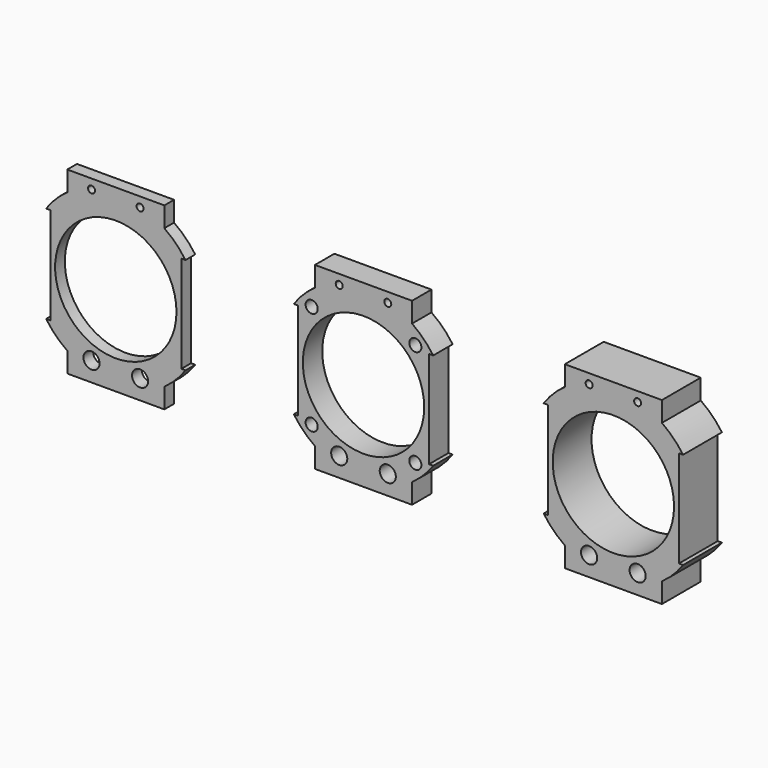
from build123d import *

# Parameters (mm, degrees)
F0_R     = 0.79375
F0_R_2   = 7.9375
F1_DEPTH = 3.175
F2_R     = 7.9375
F3_DEPTH = 6.35
F5_R     = 7.9375
F6_DEPTH = 1.5875


with BuildPart() as f1:
    # F0 (on Front) → F1 (new body)
    with BuildSketch(Plane.XZ):
        with BuildLine():
            ThreePointArc((3.631523, 10.502366), (5.038431, 9.904639), (6.35, 9.119493))
            Line((6.35, 9.119493), (6.35, 11.7475))
            Line((6.35, 11.7475), (-6.35, 11.7475))
            Line((-6.35, 11.7475), (-6.35, 9.119493))
            ThreePointArc((-6.35, 9.119493), (-5.038431, 9.904639), (-3.631523, 10.502366))
            ThreePointArc((-3.631523, 10.502366), (-3.307591, 10.915052), (-2.809071, 10.751594))
            ThreePointArc((-2.809071, 10.751594), (0, 11.1125), (2.809071, 10.751594))
            ThreePointArc((2.809071, 10.751594), (3.307591, 10.915052), (3.631523, 10.502366))
        make_face()
        with BuildLine():
            Line((6.35, -11.7475), (6.35, -9.119493))
            ThreePointArc((6.35, -9.119493), (0, -11.1125), (-6.35, -9.119493))
            Line((-6.35, -9.119493), (-6.35, -11.7475))
            Line((-6.35, -11.7475), (6.35, -11.7475))
        make_face()
        with BuildLine():
            Line((6.35, 8.5725), (6.35, 9.119493))
            ThreePointArc((6.35, 9.119493), (5.038431, 9.904639), (3.631523, 10.502366))
            ThreePointArc((3.631523, 10.502366), (3.632031, 10.489938), (3.6322, 10.4775))
            ThreePointArc((3.6322, 10.4775), (3.030555, 10.043717), (2.809071, 10.751594))
            ThreePointArc((2.809071, 10.751594), (0, 11.1125), (-2.809071, 10.751594))
            ThreePointArc((-2.809071, 10.751594), (-2.741217, 10.621945), (-2.7178, 10.4775))
            ThreePointArc((-2.7178, 10.4775), (-3.187438, 10.020469), (-3.631523, 10.502366))
            ThreePointArc((-3.631523, 10.502366), (-5.038431, 9.904639), (-6.35, 9.119493))
            Line((-6.35, 9.119493), (-6.35, 8.5725))
            Line((-6.35, 8.5725), (6.35, 8.5725))
        make_face()
        with BuildLine():
            ThreePointArc((-6.35, -9.119493), (0, -11.1125), (6.35, -9.119493))
            Line((6.35, -9.119493), (6.35, -8.5725))
            Line((6.35, -8.5725), (4.016369, -8.5725))
            ThreePointArc((4.016369, -8.5725), (4.174503, -8.872657), (4.2291, -9.2075))
            ThreePointArc((4.2291, -9.2075), (2.840157, -10.207003), (2.333631, -8.5725))
            Line((2.333631, -8.5725), (-2.333631, -8.5725))
            ThreePointArc((-2.333631, -8.5725), (-2.175497, -8.872657), (-2.1209, -9.2075))
            ThreePointArc((-2.1209, -9.2075), (-3.509843, -10.207003), (-4.016369, -8.5725))
            Line((-4.016369, -8.5725), (-6.35, -8.5725))
            Line((-6.35, -8.5725), (-6.35, -9.119493))
        make_face()
        with BuildLine():
            Line((8.5725, 6.35), (9.119493, 6.35))
            ThreePointArc((9.119493, 6.35), (7.857724, 7.857724), (6.35, 9.119493))
            Line((6.35, 9.119493), (6.35, 8.5725))
            Line((6.35, 8.5725), (-6.35, 8.5725))
            Line((-6.35, 8.5725), (-6.35, 9.119493))
            ThreePointArc((-6.35, 9.119493), (-7.857724, 7.857724), (-9.119493, 6.35))
            Line((-9.119493, 6.35), (-8.5725, 6.35))
            Line((-8.5725, 6.35), (-8.5725, -6.35))
            Line((-8.5725, -6.35), (-9.119493, -6.35))
            ThreePointArc((-9.119493, -6.35), (-7.857724, -7.857724), (-6.35, -9.119493))
            Line((-6.35, -9.119493), (-6.35, -8.5725))
            Line((-6.35, -8.5725), (-4.016369, -8.5725))
            ThreePointArc((-4.016369, -8.5725), (-3.175, -8.1534), (-2.333631, -8.5725))
            Line((-2.333631, -8.5725), (2.333631, -8.5725))
            ThreePointArc((2.333631, -8.5725), (3.175, -8.1534), (4.016369, -8.5725))
            Line((4.016369, -8.5725), (6.35, -8.5725))
            Line((6.35, -8.5725), (6.35, -9.119493))
            ThreePointArc((6.35, -9.119493), (7.857724, -7.857724), (9.119493, -6.35))
            Line((9.119493, -6.35), (8.5725, -6.35))
            Line((8.5725, -6.35), (8.5725, 6.35))
        make_face()
        with Locations((-6.780093, -6.780093)):
            Circle(F0_R, mode=Mode.SUBTRACT)
        Circle(F0_R_2, mode=Mode.SUBTRACT)
        with Locations((6.780093, -6.780093)):
            Circle(F0_R, mode=Mode.SUBTRACT)
        with Locations((-6.780093, 6.780093)):
            Circle(F0_R, mode=Mode.SUBTRACT)
        with Locations((6.780093, 6.780093)):
            Circle(F0_R, mode=Mode.SUBTRACT)
    extrude(amount=-F1_DEPTH)


with BuildPart() as f3:
    # F2 (on Front) → F3 (new body)
    with BuildSketch(Plane.XZ):
        with BuildLine():
            Line((-49.419824, 60.409108), (-48.87283, 60.409108))
            ThreePointArc((-48.87283, 60.409108), (-50.134599, 61.916832), (-51.642324, 63.178601))
            Line((-51.642324, 63.178601), (-51.642324, 62.631608))
            Line((-51.642324, 62.631608), (-64.342324, 62.631608))
            Line((-64.342324, 62.631608), (-64.342324, 63.178601))
            ThreePointArc((-64.342324, 63.178601), (-65.850048, 61.916832), (-67.111817, 60.409108))
            Line((-67.111817, 60.409108), (-66.564824, 60.409108))
            Line((-66.564824, 60.409108), (-66.564824, 47.709108))
            Line((-66.564824, 47.709108), (-67.111817, 47.709108))
            ThreePointArc((-67.111817, 47.709108), (-65.850048, 46.201384), (-64.342324, 44.939615))
            Line((-64.342324, 44.939615), (-64.342324, 45.486608))
            Line((-64.342324, 45.486608), (-62.008693, 45.486608))
            ThreePointArc((-62.008693, 45.486608), (-61.167324, 45.905708), (-60.325955, 45.486608))
            Line((-60.325955, 45.486608), (-55.658693, 45.486608))
            ThreePointArc((-55.658693, 45.486608), (-54.817324, 45.905708), (-53.975955, 45.486608))
            Line((-53.975955, 45.486608), (-51.642324, 45.486608))
            Line((-51.642324, 45.486608), (-51.642324, 44.939615))
            ThreePointArc((-51.642324, 44.939615), (-50.134599, 46.201384), (-48.87283, 47.709108))
            Line((-48.87283, 47.709108), (-49.419824, 47.709108))
            Line((-49.419824, 47.709108), (-49.419824, 60.409108))
        make_face()
        with Locations((-57.992324, 54.059108)):
            Circle(F2_R, mode=Mode.SUBTRACT)
        with BuildLine():
            ThreePointArc((-54.3608, 64.561474), (-52.953893, 63.963747), (-51.642324, 63.178601))
            Line((-51.642324, 63.178601), (-51.642324, 65.806608))
            Line((-51.642324, 65.806608), (-64.342324, 65.806608))
            Line((-64.342324, 65.806608), (-64.342324, 63.178601))
            ThreePointArc((-64.342324, 63.178601), (-63.030754, 63.963747), (-61.623847, 64.561474))
            ThreePointArc((-61.623847, 64.561474), (-61.299915, 64.974159), (-60.801394, 64.810702))
            ThreePointArc((-60.801394, 64.810702), (-57.992324, 65.171608), (-55.183253, 64.810702))
            ThreePointArc((-55.183253, 64.810702), (-54.684732, 64.974159), (-54.3608, 64.561474))
        make_face()
        with BuildLine():
            Line((-51.642324, 62.631608), (-51.642324, 63.178601))
            ThreePointArc((-51.642324, 63.178601), (-52.953893, 63.963747), (-54.3608, 64.561474))
            ThreePointArc((-54.3608, 64.561474), (-54.360293, 64.549046), (-54.360124, 64.536608))
            ThreePointArc((-54.360124, 64.536608), (-54.961769, 64.102825), (-55.183253, 64.810702))
            ThreePointArc((-55.183253, 64.810702), (-57.992324, 65.171608), (-60.801394, 64.810702))
            ThreePointArc((-60.801394, 64.810702), (-60.733541, 64.681053), (-60.710124, 64.536608))
            ThreePointArc((-60.710124, 64.536608), (-61.179761, 64.079577), (-61.623847, 64.561474))
            ThreePointArc((-61.623847, 64.561474), (-63.030754, 63.963747), (-64.342324, 63.178601))
            Line((-64.342324, 63.178601), (-64.342324, 62.631608))
            Line((-64.342324, 62.631608), (-51.642324, 62.631608))
        make_face()
        with BuildLine():
            ThreePointArc((-64.342324, 44.939615), (-57.992324, 42.946608), (-51.642324, 44.939615))
            Line((-51.642324, 44.939615), (-51.642324, 45.486608))
            Line((-51.642324, 45.486608), (-53.975955, 45.486608))
            ThreePointArc((-53.975955, 45.486608), (-53.81782, 45.186451), (-53.763224, 44.851608))
            ThreePointArc((-53.763224, 44.851608), (-55.152167, 43.852105), (-55.658693, 45.486608))
            Line((-55.658693, 45.486608), (-60.325955, 45.486608))
            ThreePointArc((-60.325955, 45.486608), (-60.16782, 45.186451), (-60.113224, 44.851608))
            ThreePointArc((-60.113224, 44.851608), (-61.502167, 43.852105), (-62.008693, 45.486608))
            Line((-62.008693, 45.486608), (-64.342324, 45.486608))
            Line((-64.342324, 45.486608), (-64.342324, 44.939615))
        make_face()
        with BuildLine():
            Line((-51.642324, 42.311608), (-51.642324, 44.939615))
            ThreePointArc((-51.642324, 44.939615), (-57.992324, 42.946608), (-64.342324, 44.939615))
            Line((-64.342324, 44.939615), (-64.342324, 42.311608))
            Line((-64.342324, 42.311608), (-51.642324, 42.311608))
        make_face()
    extrude(amount=-F3_DEPTH)


with BuildPart() as f3_1:
    # F4: moved
    add(f3.part.moved(Location((90.678, 0, -52.578))))


with BuildPart() as f6:
    # F5 (on Front) → F6 (new body)
    with BuildSketch(Plane.XZ):
        with BuildLine():
            Line((-92.664718, 12.893187), (-92.117725, 12.893187))
            ThreePointArc((-92.117725, 12.893187), (-93.379494, 14.400911), (-94.887218, 15.66268))
            Line((-94.887218, 15.66268), (-94.887218, 15.115687))
            Line((-94.887218, 15.115687), (-107.587218, 15.115687))
            Line((-107.587218, 15.115687), (-107.587218, 15.66268))
            ThreePointArc((-107.587218, 15.66268), (-109.094942, 14.400911), (-110.356711, 12.893187))
            Line((-110.356711, 12.893187), (-109.809718, 12.893187))
            Line((-109.809718, 12.893187), (-109.809718, 0.193187))
            Line((-109.809718, 0.193187), (-110.356711, 0.193187))
            ThreePointArc((-110.356711, 0.193187), (-109.094942, -1.314537), (-107.587218, -2.576306))
            Line((-107.587218, -2.576306), (-107.587218, -2.029313))
            Line((-107.587218, -2.029313), (-105.253587, -2.029313))
            ThreePointArc((-105.253587, -2.029313), (-104.412218, -1.610213), (-103.570849, -2.029313))
            Line((-103.570849, -2.029313), (-98.903587, -2.029313))
            ThreePointArc((-98.903587, -2.029313), (-98.062218, -1.610213), (-97.220849, -2.029313))
            Line((-97.220849, -2.029313), (-94.887218, -2.029313))
            Line((-94.887218, -2.029313), (-94.887218, -2.576306))
            ThreePointArc((-94.887218, -2.576306), (-93.379494, -1.314537), (-92.117725, 0.193187))
            Line((-92.117725, 0.193187), (-92.664718, 0.193187))
            Line((-92.664718, 0.193187), (-92.664718, 12.893187))
        make_face()
        with Locations((-101.237218, 6.543187)):
            Circle(F5_R, mode=Mode.SUBTRACT)
        with BuildLine():
            Line((-94.887218, 15.115687), (-94.887218, 15.66268))
            ThreePointArc((-94.887218, 15.66268), (-96.198787, 16.447826), (-97.605695, 17.045553))
            ThreePointArc((-97.605695, 17.045553), (-97.605187, 17.033125), (-97.605018, 17.020687))
            ThreePointArc((-97.605018, 17.020687), (-98.206664, 16.586904), (-98.428147, 17.294781))
            ThreePointArc((-98.428147, 17.294781), (-101.237218, 17.655687), (-104.046289, 17.294781))
            ThreePointArc((-104.046289, 17.294781), (-103.978436, 17.165133), (-103.955018, 17.020687))
            ThreePointArc((-103.955018, 17.020687), (-104.424656, 16.563656), (-104.868741, 17.045553))
            ThreePointArc((-104.868741, 17.045553), (-106.275649, 16.447826), (-107.587218, 15.66268))
            Line((-107.587218, 15.66268), (-107.587218, 15.115687))
            Line((-107.587218, 15.115687), (-94.887218, 15.115687))
        make_face()
        with BuildLine():
            ThreePointArc((-97.605695, 17.045553), (-96.198787, 16.447826), (-94.887218, 15.66268))
            Line((-94.887218, 15.66268), (-94.887218, 18.290687))
            Line((-94.887218, 18.290687), (-107.587218, 18.290687))
            Line((-107.587218, 18.290687), (-107.587218, 15.66268))
            ThreePointArc((-107.587218, 15.66268), (-106.275649, 16.447826), (-104.868741, 17.045553))
            ThreePointArc((-104.868741, 17.045553), (-104.54481, 17.458239), (-104.046289, 17.294781))
            ThreePointArc((-104.046289, 17.294781), (-101.237218, 17.655687), (-98.428147, 17.294781))
            ThreePointArc((-98.428147, 17.294781), (-97.929627, 17.458239), (-97.605695, 17.045553))
        make_face()
        with BuildLine():
            ThreePointArc((-107.587218, -2.576306), (-101.237218, -4.569313), (-94.887218, -2.576306))
            Line((-94.887218, -2.576306), (-94.887218, -2.029313))
            Line((-94.887218, -2.029313), (-97.220849, -2.029313))
            ThreePointArc((-97.220849, -2.029313), (-97.062715, -2.32947), (-97.008118, -2.664313))
            ThreePointArc((-97.008118, -2.664313), (-98.397061, -3.663816), (-98.903587, -2.029313))
            Line((-98.903587, -2.029313), (-103.570849, -2.029313))
            ThreePointArc((-103.570849, -2.029313), (-103.412715, -2.32947), (-103.358118, -2.664313))
            ThreePointArc((-103.358118, -2.664313), (-104.747061, -3.663816), (-105.253587, -2.029313))
            Line((-105.253587, -2.029313), (-107.587218, -2.029313))
            Line((-107.587218, -2.029313), (-107.587218, -2.576306))
        make_face()
        with BuildLine():
            Line((-94.887218, -5.204313), (-94.887218, -2.576306))
            ThreePointArc((-94.887218, -2.576306), (-101.237218, -4.569313), (-107.587218, -2.576306))
            Line((-107.587218, -2.576306), (-107.587218, -5.204313))
            Line((-107.587218, -5.204313), (-94.887218, -5.204313))
        make_face()
    extrude(amount=-F6_DEPTH)


with BuildPart() as f6_1:
    # F7: moved
    add(f6.part.moved(Location((68.834, 0, 0))))


with BuildPart() as f6_2:
    # F8: moved
    add(f6_1.part.moved(Location((0, 0, -6.096))))


with BuildPart() as f3_2:
    # F9: moved
    add(f3_1.part.moved(Location((0, 0, -2.286))))


solid = Compound([f1.part, f6_2.part, f3_2.part])
